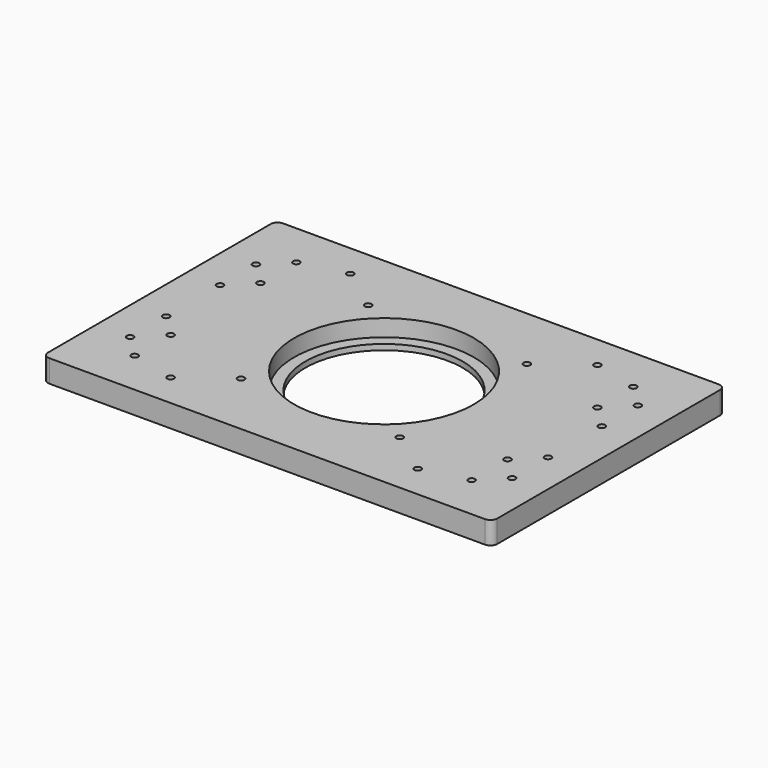
from build123d import *

# Parameters (mm, degrees)
SKETCH_W     = 200
SKETCH_H     = 130
SKETCH_R     = 35
SKETCH_R_2   = 1.5
PAD_DEPTH    = 10
SKETCH001_R  = 40
POCKET_DEPTH = 7.5
FILLET_R     = 3


with BuildPart() as part:
    # Sketch → Pad (new body)
    with BuildSketch(Plane.XY):
        with Locations((100, 65)):
            Rectangle(SKETCH_W, SKETCH_H)
        with Locations((100, 65)):
            Circle(SKETCH_R, mode=Mode.SUBTRACT)
        with Locations((45, 115)):
            Circle(SKETCH_R_2, mode=Mode.SUBTRACT)
        with Locations((45, 15)):
            Circle(SKETCH_R_2, mode=Mode.SUBTRACT)
        with Locations((155, 115)):
            Circle(SKETCH_R_2, mode=Mode.SUBTRACT)
        with Locations((155, 15)):
            Circle(SKETCH_R_2, mode=Mode.SUBTRACT)
        with Locations((185, 30)):
            Circle(SKETCH_R_2, mode=Mode.SUBTRACT)
        with Locations((135.353085, 100.338453)):
            Circle(SKETCH_R_2, mode=Mode.SUBTRACT)
        with Locations((64.627773, 29.642413)):
            Circle(SKETCH_R_2, mode=Mode.SUBTRACT)
        with Locations((64.64463, 100.35537)):
            Circle(SKETCH_R_2, mode=Mode.SUBTRACT)
        with Locations((135.352442, 29.63292)):
            Circle(SKETCH_R_2, mode=Mode.SUBTRACT)
        with Locations((175, 20)):
            Circle(SKETCH_R_2, mode=Mode.SUBTRACT)
        with Locations((175, 40)):
            Circle(SKETCH_R_2, mode=Mode.SUBTRACT)
        with Locations((185, 50)):
            Circle(SKETCH_R_2, mode=Mode.SUBTRACT)
        with Locations((175, 90)):
            Circle(SKETCH_R_2, mode=Mode.SUBTRACT)
        with Locations((175, 110)):
            Circle(SKETCH_R_2, mode=Mode.SUBTRACT)
        with Locations((185, 80)):
            Circle(SKETCH_R_2, mode=Mode.SUBTRACT)
        with Locations((185, 100)):
            Circle(SKETCH_R_2, mode=Mode.SUBTRACT)
        with Locations((15, 30)):
            Circle(SKETCH_R_2, mode=Mode.SUBTRACT)
        with Locations((25, 20)):
            Circle(SKETCH_R_2, mode=Mode.SUBTRACT)
        with Locations((25, 40)):
            Circle(SKETCH_R_2, mode=Mode.SUBTRACT)
        with Locations((15, 50)):
            Circle(SKETCH_R_2, mode=Mode.SUBTRACT)
        with Locations((25, 90)):
            Circle(SKETCH_R_2, mode=Mode.SUBTRACT)
        with Locations((25, 110)):
            Circle(SKETCH_R_2, mode=Mode.SUBTRACT)
        with Locations((15, 80)):
            Circle(SKETCH_R_2, mode=Mode.SUBTRACT)
        with Locations((15, 100)):
            Circle(SKETCH_R_2, mode=Mode.SUBTRACT)
    extrude(amount=PAD_DEPTH)

    # Sketch001 (on Face31 of Pad) → Pocket (cut)
    with BuildSketch(Plane.XY.offset(10)):
        with Locations((100, 65)):
            Circle(SKETCH001_R)
    extrude(amount=-POCKET_DEPTH, mode=Mode.SUBTRACT)

    # Fillet
    fillet_edges = [part.edges().sort_by_distance(p)[0] for p in [
        (200, 0, 5),
        (200, 130, 5),
        (0, 0, 5),
        (0, 130, 5),
    ]]
    fillet(fillet_edges, radius=FILLET_R)


solid = part.part
